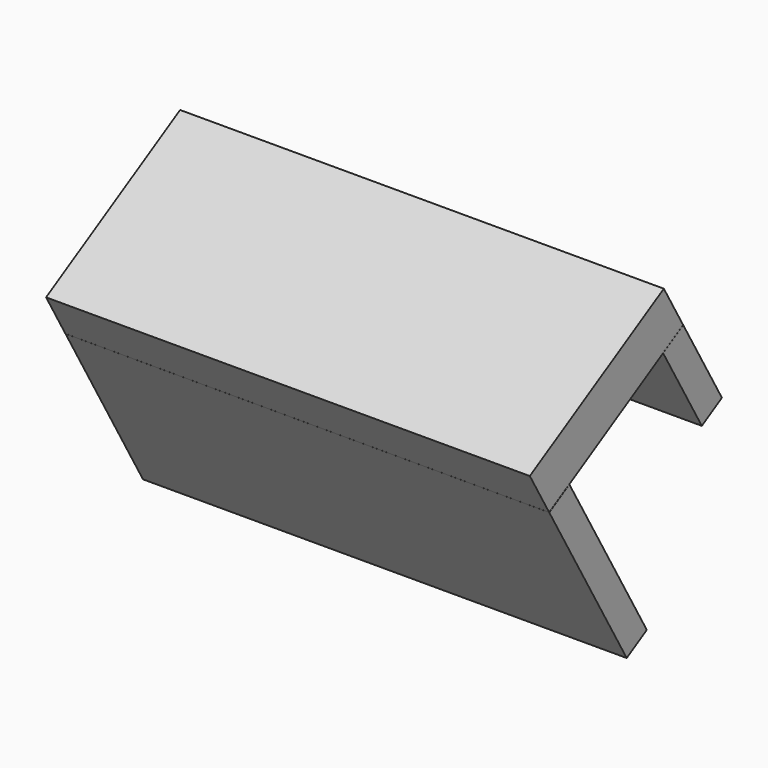
from build123d import *

# Parameters (mm, degrees)
SKETCH057_W             = 50
SKETCH057_H             = 20
PAD056_DEPTH            = 5
SKETCH058_W             = 50
SKETCH058_H             = 3
PAD057_DEPTH            = 20
SKETCH059_W             = 50
SKETCH059_H             = 10
PAD058_DEPTH            = 3
BODY043_ROLL_ANGLE      = 149.965102
BODY043_PITCH_ANGLE     = -0.000568
BODY043_PLACEMENT_ANGLE = 179.999625


with BuildPart() as part:
    # Sketch057 → Pad056 (new body)
    with BuildSketch(Plane.XY):
        with Locations((184.845276, -123.914059)):
            Rectangle(SKETCH057_W, SKETCH057_H)
    extrude(amount=PAD056_DEPTH)

    # Sketch058 (on Face6 of Pad056) → Pad057 (join)
    with BuildSketch(Plane.XY.offset(5)):
        with Locations((184.83606, -132.417099)):
            Rectangle(SKETCH058_W, SKETCH058_H)
    extrude(amount=PAD057_DEPTH)

    # Sketch059 (on Face7 of Pad057) → Pad058 (join)
    with BuildSketch(Plane(origin=(0, -113.914059, 0), x_dir=(-1, 0, 0), z_dir=(0, 1, 0))):
        with Locations((-184.841869, 9.989668)):
            Rectangle(SKETCH059_W, SKETCH059_H)
    extrude(amount=-PAD058_DEPTH)


with BuildPart() as part_1:
    # Body043 roll: moved
    add(part.part.rotate(Axis((0, 0, 0), (1, 0, 0)), BODY043_ROLL_ANGLE))


with BuildPart() as part_2:
    # Body043 pitch: moved
    add(part_1.part.rotate(Axis((0, 0, 0), (0, 1, 0)), BODY043_PITCH_ANGLE))


with BuildPart() as part_3:
    # Body043 placement: moved
    add(part_2.part.moved(Location((186.038525, 90.64289, 266.847744))).rotate(Axis((186.038525, 90.64289, 266.847744), (0, 0, 1)), BODY043_PLACEMENT_ANGLE))


solid = part_3.part
